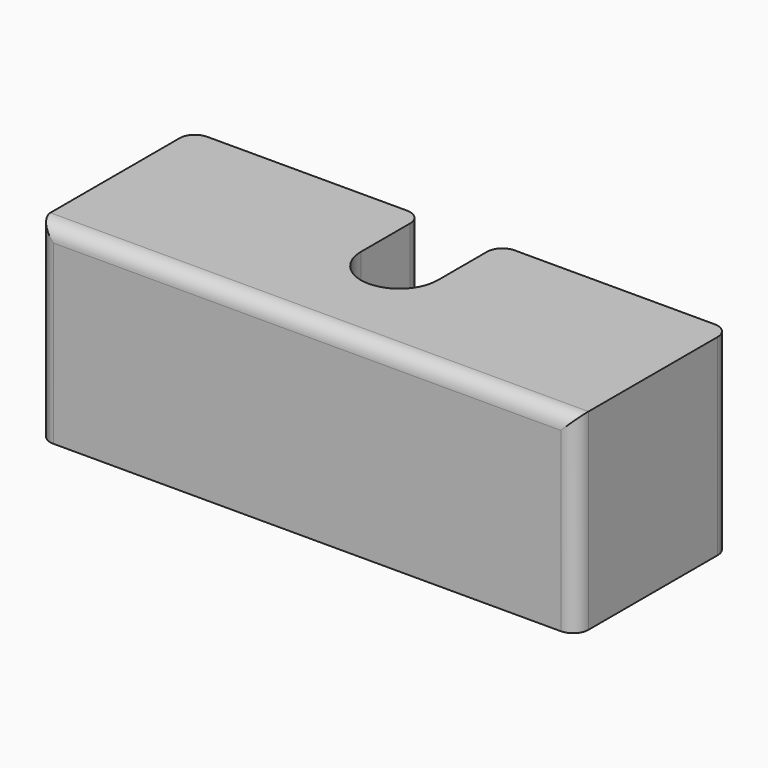
from build123d import *

# Parameters (mm, degrees)
F1_DEPTH = 25
F2_R     = 2


with BuildPart() as f1:
    # F0 (on Top) → F1 (new body)
    with BuildSketch(Plane.XY):
        with BuildLine():
            Line((-34.183937, 25), (-34.183937, 0))
            Line((-34.183937, 0), (35.816063, 0))
            Line((35.816063, 0), (35.816063, 25))
            Line((35.816063, 25), (5.816063, 25))
            Line((5.816063, 25), (5.816063, 15))
            ThreePointArc((5.816063, 15), (0.816063, 10), (-4.183937, 15))
            Line((-4.183937, 15), (-4.183937, 25))
            Line((-4.183937, 25), (-34.183937, 25))
        make_face()
    extrude(amount=F1_DEPTH)

    # F2
    f2_edges = [f1.edges().sort_by_distance(p)[0] for p in [
        (0.816063, 0, 25),
        (-34.183937, 0, 12.5),
        (35.816063, 0, 12.5),
        (35.816063, 25, 12.5),
        (5.816063, 25, 12.5),
        (-4.183937, 25, 12.5),
        (-34.183937, 25, 12.5),
    ]]
    fillet(f2_edges, radius=F2_R)


solid = f1.part
